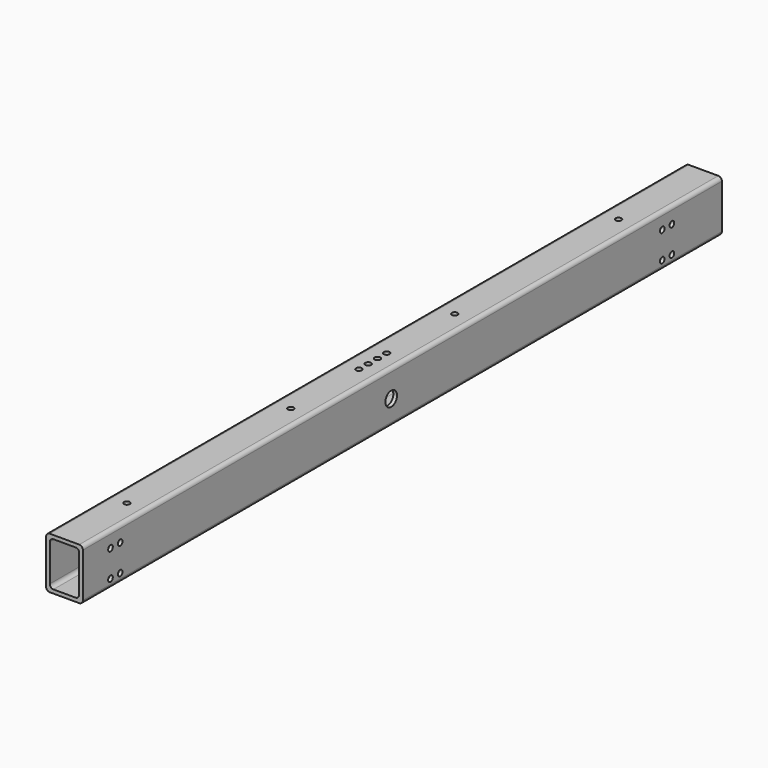
from build123d import *

# Parameters (mm, degrees)
F1_DEPTH = 1377.117
F2_R     = 5
F3_DEPTH = 25
F4_R     = 5
F5_DEPTH = 25
F6_R     = 12.5
F7_DEPTH = 63.501


with BuildPart() as f1:
    # F0 (on Front) → F1 (new body)
    with BuildSketch(Plane.XZ):
        with BuildLine():
            Line((38.100001, 49.391132), (-12.699999, 49.391132))
            ThreePointArc((-12.699999, 49.391132), (-17.190127, 47.53126), (-19.049999, 43.041132))
            Line((-19.049999, 43.041132), (-19.049999, -33.158868))
            ThreePointArc((-19.049999, -33.158868), (-17.190127, -37.648996), (-12.699999, -39.508868))
            Line((-12.699999, -39.508868), (38.100001, -39.508868))
            ThreePointArc((38.100001, -39.508868), (42.590129, -37.648996), (44.450001, -33.158868))
            Line((44.450001, -33.158868), (44.450001, 43.041132))
            ThreePointArc((44.450001, 43.041132), (42.590129, 47.53126), (38.100001, 49.391132))
        make_face()
        with BuildLine():
            ThreePointArc((-12.699999, 36.691132), (-10.840127, 41.18126), (-6.349999, 43.041132))
            Line((-6.349999, 43.041132), (31.750001, 43.041132))
            ThreePointArc((31.750001, 43.041132), (36.240129, 41.18126), (38.100001, 36.691132))
            Line((38.100001, 36.691132), (38.100001, -26.808868))
            ThreePointArc((38.100001, -26.808868), (36.240129, -31.298996), (31.750001, -33.158868))
            Line((31.750001, -33.158868), (-6.349999, -33.158868))
            ThreePointArc((-6.349999, -33.158868), (-10.840127, -31.298996), (-12.699999, -26.808868))
            Line((-12.699999, -26.808868), (-12.699999, 36.691132))
        make_face(mode=Mode.SUBTRACT)
    extrude(amount=F1_DEPTH)

    # F2 (on face) → F3 (cut)
    with BuildSketch(Plane.YZ.offset(44.450001)):
        with Locations((-1317.667, 21.691132)):
            Circle(F2_R)
        with Locations((-1317.667, -24.508868)):
            Circle(F2_R)
        with Locations((-1296.867, 21.691132)):
            Circle(F2_R)
        with Locations((-1296.867, -24.508868)):
            Circle(F2_R)
        with Locations((-128.6, 21.691132)):
            Circle(F2_R)
        with Locations((-128.6, -24.508868)):
            Circle(F2_R)
        with Locations((-107.8, 21.691132)):
            Circle(F2_R)
        with Locations((-107.8, -24.508868)):
            Circle(F2_R)
    extrude(amount=-F3_DEPTH, mode=Mode.SUBTRACT)

    # F4 (on face) → F5 (cut)
    with BuildSketch(Plane.XY.offset(49.391132)):
        with Locations((12.700001, -1242.477)):
            Circle(F4_R)
        with Locations((12.700001, -889.32)):
            Circle(F4_R)
        with Locations((12.700001, -536.147)):
            Circle(F4_R)
        with Locations((12.700001, -182.975)):
            Circle(F4_R)
        with Locations((12.700001, -742.7265)):
            Circle(F4_R)
        with Locations((12.700001, -722.7265)):
            Circle(F4_R)
        with Locations((12.700001, -702.7265)):
            Circle(F4_R)
        with Locations((12.700001, -682.7265)):
            Circle(F4_R)
    extrude(amount=-F5_DEPTH, mode=Mode.SUBTRACT)

    # F6 (on face) → F7 (cut, through all)
    with BuildSketch(Plane(origin=(-19.049999, 0, 0), x_dir=(0, -1, 0), z_dir=(-1, 0, 0))):
        with Locations((712.726, 2.691132)):
            Circle(F6_R)
    extrude(amount=-F7_DEPTH, mode=Mode.SUBTRACT)


solid = f1.part
